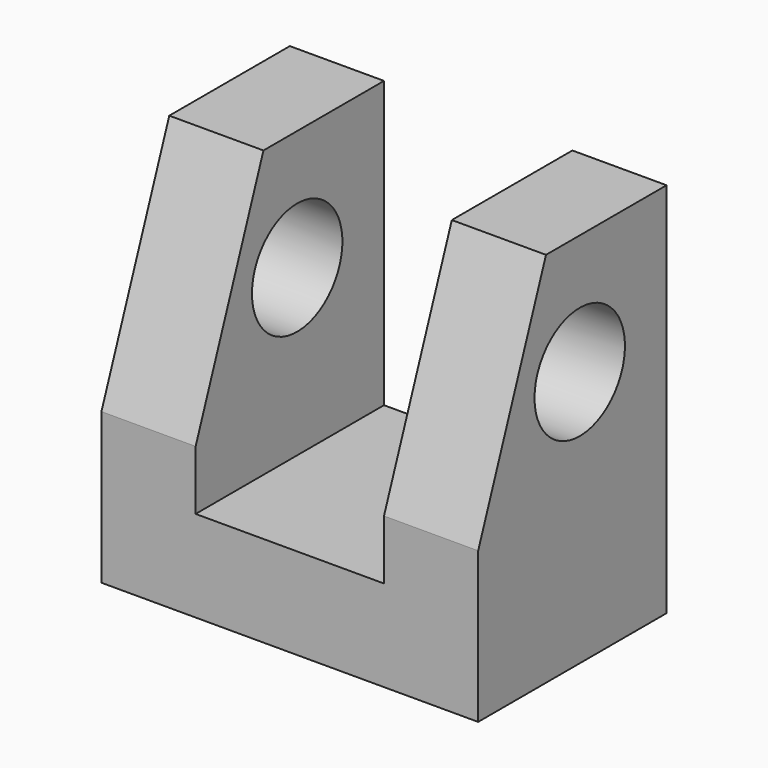
from build123d import *

# Parameters (mm, degrees)
F1_DEPTH = 25
F3_D     = 12
F4_SIZE2 = 24
F4_SIZE  = 9


with BuildPart() as f1:
    # F0 (on Front) → F1 (new body)
    with BuildSketch(Plane.XZ):
        Polygon((10, 30.314465), (10, 0), (0, 0), (0, -9.685535), (20, -9.685535), (20, 30.314465), align=None)
    extrude(amount=-F1_DEPTH)

    # F3 (through all)
    with Locations(Plane.YZ.offset(20)):
        with Locations((13.475935, 17.546792)):
            Hole(F3_D / 2)

    # F4
    f4_edges = [f1.edges().sort_by_distance(p)[0] for p in [
        (15, 0, 30.314465),
    ]]
    chamfer(f4_edges, length=F4_SIZE, length2=F4_SIZE2)

    # F5: F1 across plane


with BuildPart() as f1_1:
    add(f1.part)
    add(f1.part.mirror(Plane.YZ))


solid = f1_1.part
